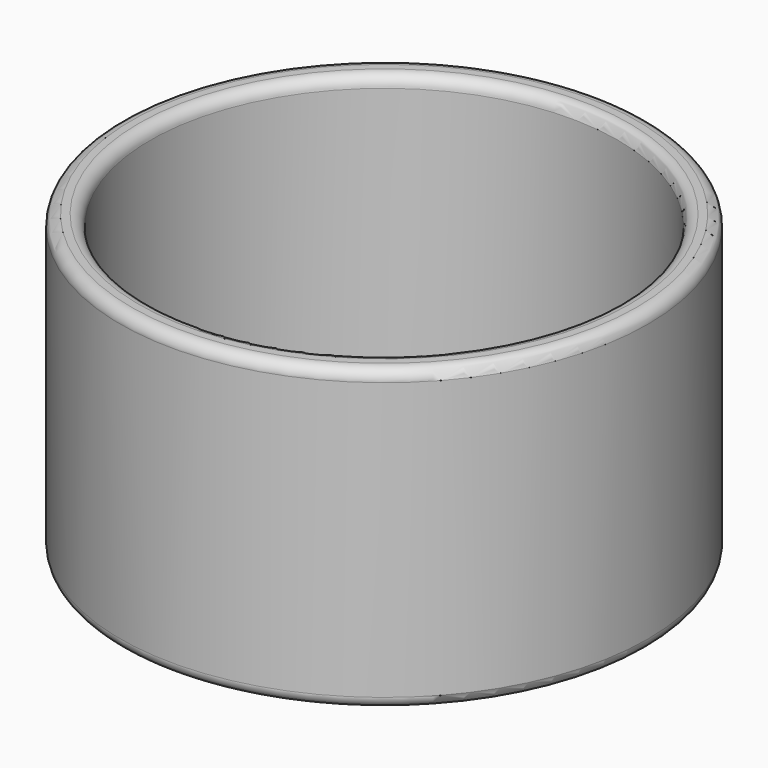
from build123d import *

# Parameters (mm, degrees)
F0_R     = 7.05
F0_R_2   = 6.25
F1_DEPTH = 8
F2_R     = 0.3


with BuildPart() as f1:
    # F0 (on Top) → F1 (new body)
    with BuildSketch(Plane.XY):
        Circle(F0_R)
        Circle(F0_R_2, mode=Mode.SUBTRACT)
    extrude(amount=F1_DEPTH)

    # F2
    f2_edges = [f1.edges().sort_by_distance(p)[0] for p in [
        (-7.05, 0, 8),
        (-7.05, 0, 0),
        (7.05, 0, 4),
        (-6.25, 0, 0),
        (-6.25, 0, 8),
    ]]
    fillet(f2_edges, radius=F2_R)


solid = f1.part
